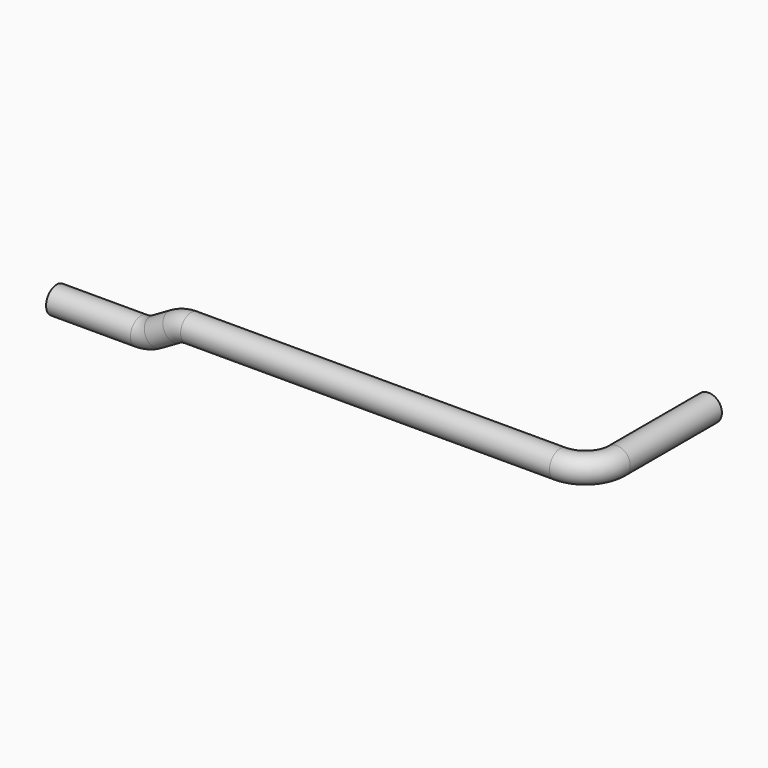
from build123d import *

# Parameters (mm, degrees)
F0_R      = 8.001
F0_R_2    = 5.08
F1_DEPTH  = 69.088
F2_R      = 8.001
F2_R_2    = 5.08
F3_ANGLE  = 90
F4_R      = 8.001
F4_R_2    = 5.08
F5_DEPTH  = 222.25
F6_R      = 8.001
F6_R_2    = 5.08
F7_ANGLE  = 30
F8_R      = 8.001
F8_R_2    = 5.08
F9_DEPTH  = 12.954
F10_R     = 8.001
F10_R_2   = 5.08
F11_ANGLE = 30
F12_R     = 8.001
F12_R_2   = 5.08
F13_DEPTH = 50.8


with BuildPart() as f1:
    # F0 (on Front) → F1 (new body)
    with BuildSketch(Plane.XZ):
        Circle(F0_R)
        Circle(F0_R_2, mode=Mode.SUBTRACT)
    extrude(amount=F1_DEPTH)

    # F2 (on face) → F3 (revolve)
    with BuildSketch(Plane.XZ.offset(69.088)):
        Circle(F2_R)
        Circle(F2_R_2, mode=Mode.SUBTRACT)
    revolve(axis=Axis((-19.05, -69.088, 2.9448331334), (0, 0, -1)), revolution_arc=F3_ANGLE)

    # F4 (on face) → F5 (join)
    with BuildSketch(Plane(origin=(-19.05, 0, 0), x_dir=(0, -1, 0), z_dir=(-1, 0, 0))):
        with Locations((88.138, 0)):
            Circle(F4_R)
        with Locations((88.138, 0)):
            Circle(F4_R_2, mode=Mode.SUBTRACT)
    extrude(amount=F5_DEPTH)

    # F6 (on face) → F7 (revolve)
    with BuildSketch(Plane(origin=(-241.3, 0, 0), x_dir=(0, -1, 0), z_dir=(-1, 0, 0))):
        with Locations((88.138, 0)):
            Circle(F6_R)
        with Locations((88.138, 0)):
            Circle(F6_R_2, mode=Mode.SUBTRACT)
    revolve(axis=Axis((-241.3, -89.2251888638, -19.05), (0, -1, 0)), revolution_arc=F7_ANGLE)

    # F8 (on face) → F9 (join)
    with BuildSketch(Plane(origin=(-189.223891971, 0, -109.2484649666), x_dir=(0, -1, 0), z_dir=(-0.8660254038, 0, -0.5))):
        with Locations((88.138, 123.2022160579)):
            Circle(F8_R)
        with Locations((88.138, 123.2022160579)):
            Circle(F8_R_2, mode=Mode.SUBTRACT)
    extrude(amount=F9_DEPTH)

    # F10 (on face) → F11 (revolve)
    with BuildSketch(Plane(origin=(-200.4423850517, 0, -115.7254649666), x_dir=(0, -1, 0), z_dir=(-0.8660254038, 0, -0.5))):
        with Locations((88.138, 123.2022160579)):
            Circle(F10_R)
        with Locations((88.138, 123.2022160579)):
            Circle(F10_R_2, mode=Mode.SUBTRACT)
    revolve(axis=Axis((-271.5684930806, -88.2795984273, 7.4685678842), (0, 1, 0)), revolution_arc=F11_ANGLE)

    # F12 (on face) → F13 (join)
    with BuildSketch(Plane(origin=(-271.5684930806, 0, 0), x_dir=(0, -1, 0), z_dir=(-1, 0, 0))):
        with Locations((88.138, -11.5814321158)):
            Circle(F12_R)
        with Locations((88.138, -11.5814321158)):
            Circle(F12_R_2, mode=Mode.SUBTRACT)
    extrude(amount=F13_DEPTH)


solid = f1.part
